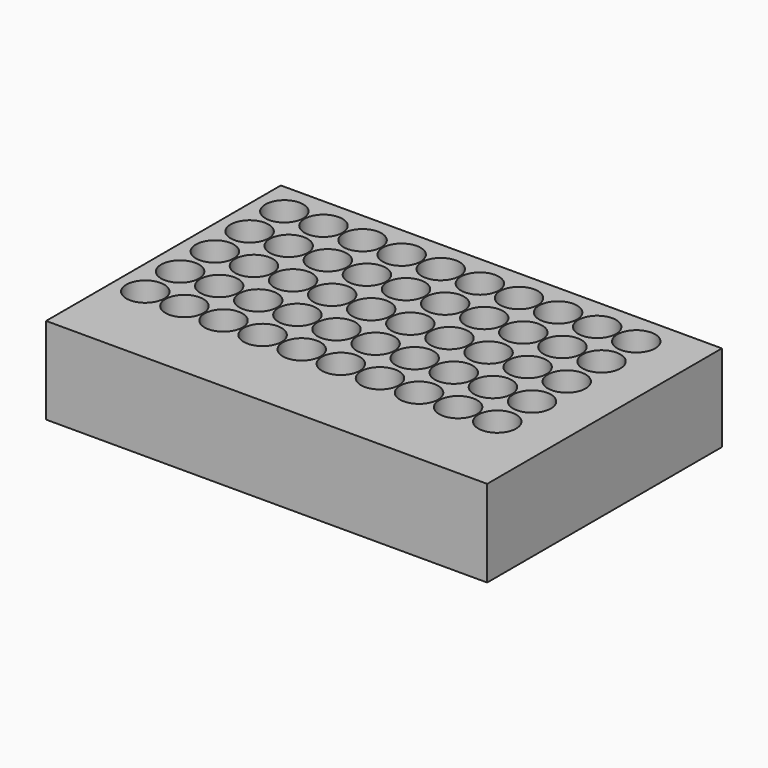
from build123d import *

# Parameters (mm, degrees)
F0_W     = 128.936976
F0_H     = 85.766114
F0_R     = 5.536055
F1_DEPTH = 25.4


with BuildPart() as f1:
    # F0 (on Top) → F1 (new body)
    with BuildSketch(Plane.XY):
        Rectangle(F0_W, F0_H)
        with Locations((-55.834316, -17.414533)):
            Circle(F0_R, mode=Mode.SUBTRACT)
        with Locations((-44.404316, -17.414533)):
            Circle(F0_R, mode=Mode.SUBTRACT)
        with Locations((-32.974316, -17.414533)):
            Circle(F0_R, mode=Mode.SUBTRACT)
        with Locations((-55.834316, -4.714533)):
            Circle(F0_R, mode=Mode.SUBTRACT)
        with Locations((-44.404316, -4.714533)):
            Circle(F0_R, mode=Mode.SUBTRACT)
        with Locations((-32.974316, -4.714533)):
            Circle(F0_R, mode=Mode.SUBTRACT)
        with Locations((-21.544316, -17.414533)):
            Circle(F0_R, mode=Mode.SUBTRACT)
        with Locations((-10.114316, -17.414533)):
            Circle(F0_R, mode=Mode.SUBTRACT)
        with Locations((-21.544316, -4.714533)):
            Circle(F0_R, mode=Mode.SUBTRACT)
        with Locations((-10.114316, -4.714533)):
            Circle(F0_R, mode=Mode.SUBTRACT)
        with Locations((1.315684, -17.414533)):
            Circle(F0_R, mode=Mode.SUBTRACT)
        with Locations((12.745684, -17.414533)):
            Circle(F0_R, mode=Mode.SUBTRACT)
        with Locations((24.175684, -17.414533)):
            Circle(F0_R, mode=Mode.SUBTRACT)
        with Locations((1.315684, -4.714533)):
            Circle(F0_R, mode=Mode.SUBTRACT)
        with Locations((12.745684, -4.714533)):
            Circle(F0_R, mode=Mode.SUBTRACT)
        with Locations((24.175684, -4.714533)):
            Circle(F0_R, mode=Mode.SUBTRACT)
        with Locations((35.605684, -17.414533)):
            Circle(F0_R, mode=Mode.SUBTRACT)
        with Locations((47.035684, -17.414533)):
            Circle(F0_R, mode=Mode.SUBTRACT)
        with Locations((35.605684, -4.714533)):
            Circle(F0_R, mode=Mode.SUBTRACT)
        with Locations((47.035684, -4.714533)):
            Circle(F0_R, mode=Mode.SUBTRACT)
        with Locations((-55.834316, 7.985467)):
            Circle(F0_R, mode=Mode.SUBTRACT)
        with Locations((-44.404316, 7.985467)):
            Circle(F0_R, mode=Mode.SUBTRACT)
        with Locations((-32.974316, 7.985467)):
            Circle(F0_R, mode=Mode.SUBTRACT)
        with Locations((-55.834316, 20.685467)):
            Circle(F0_R, mode=Mode.SUBTRACT)
        with Locations((-44.404316, 20.685467)):
            Circle(F0_R, mode=Mode.SUBTRACT)
        with Locations((-32.974316, 20.685467)):
            Circle(F0_R, mode=Mode.SUBTRACT)
        with Locations((-21.544316, 7.985467)):
            Circle(F0_R, mode=Mode.SUBTRACT)
        with Locations((-10.114316, 7.985467)):
            Circle(F0_R, mode=Mode.SUBTRACT)
        with Locations((-21.544316, 20.685467)):
            Circle(F0_R, mode=Mode.SUBTRACT)
        with Locations((-10.114316, 20.685467)):
            Circle(F0_R, mode=Mode.SUBTRACT)
        with Locations((-55.834316, 33.385467)):
            Circle(F0_R, mode=Mode.SUBTRACT)
        with Locations((-44.404316, 33.385467)):
            Circle(F0_R, mode=Mode.SUBTRACT)
        with Locations((-32.974316, 33.385467)):
            Circle(F0_R, mode=Mode.SUBTRACT)
        with Locations((-21.544316, 33.385467)):
            Circle(F0_R, mode=Mode.SUBTRACT)
        with Locations((-10.114316, 33.385467)):
            Circle(F0_R, mode=Mode.SUBTRACT)
        with Locations((1.315684, 7.985467)):
            Circle(F0_R, mode=Mode.SUBTRACT)
        with Locations((12.745684, 7.985467)):
            Circle(F0_R, mode=Mode.SUBTRACT)
        with Locations((24.175684, 7.985467)):
            Circle(F0_R, mode=Mode.SUBTRACT)
        with Locations((1.315684, 20.685467)):
            Circle(F0_R, mode=Mode.SUBTRACT)
        with Locations((12.745684, 20.685467)):
            Circle(F0_R, mode=Mode.SUBTRACT)
        with Locations((24.175684, 20.685467)):
            Circle(F0_R, mode=Mode.SUBTRACT)
        with Locations((35.605684, 7.985467)):
            Circle(F0_R, mode=Mode.SUBTRACT)
        with Locations((47.035684, 7.985467)):
            Circle(F0_R, mode=Mode.SUBTRACT)
        with Locations((35.605684, 20.685467)):
            Circle(F0_R, mode=Mode.SUBTRACT)
        with Locations((47.035684, 20.685467)):
            Circle(F0_R, mode=Mode.SUBTRACT)
        with Locations((1.315684, 33.385467)):
            Circle(F0_R, mode=Mode.SUBTRACT)
        with Locations((12.745684, 33.385467)):
            Circle(F0_R, mode=Mode.SUBTRACT)
        with Locations((24.175684, 33.385467)):
            Circle(F0_R, mode=Mode.SUBTRACT)
        with Locations((35.605684, 33.385467)):
            Circle(F0_R, mode=Mode.SUBTRACT)
        with Locations((47.035684, 33.385467)):
            Circle(F0_R, mode=Mode.SUBTRACT)
    extrude(amount=F1_DEPTH)


solid = f1.part
